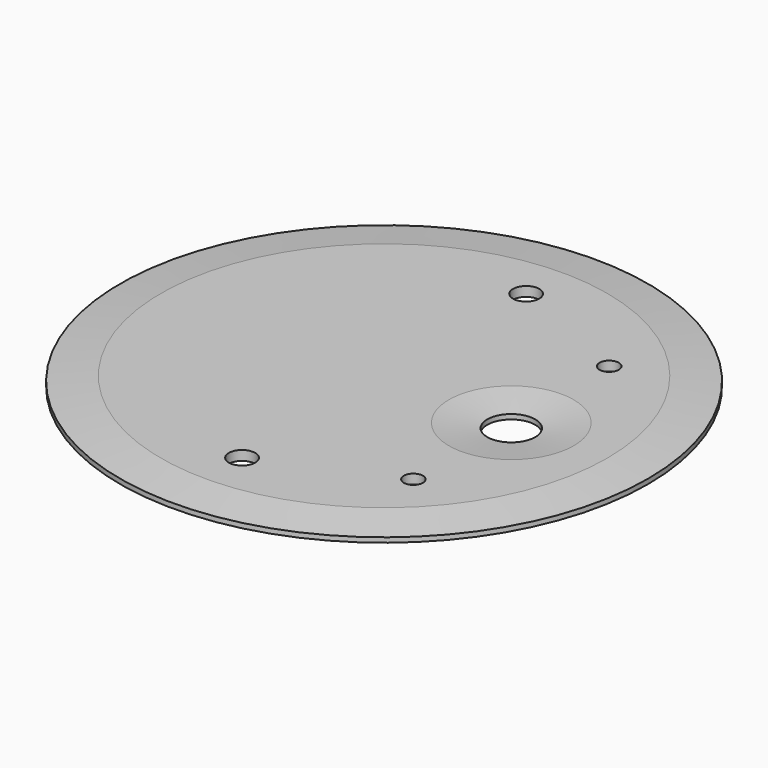
from build123d import *

# Parameters (mm, degrees)
F0_R     = 55
F0_R_2   = 2.75
F0_R_3   = 2
F0_R_4   = 5
F1_DEPTH = 2
F2_SIZE2 = 1
F2_SIZE  = 8.5
F3_SIZE2 = 8
F3_SIZE  = 1


with BuildPart() as f1:
    # F0 (on Top) → F1 (new body)
    with BuildSketch(Plane.XY):
        Circle(F0_R)
        with Locations((0, -37)):
            Circle(F0_R_2, mode=Mode.SUBTRACT)
        with Locations((26.5, -25.5)):
            Circle(F0_R_3, mode=Mode.SUBTRACT)
        with Locations((26.5, 0)):
            Circle(F0_R_4, mode=Mode.SUBTRACT)
        with Locations((26.5, 25.5)):
            Circle(F0_R_3, mode=Mode.SUBTRACT)
        with Locations((0, 37)):
            Circle(F0_R_2, mode=Mode.SUBTRACT)
    extrude(amount=F1_DEPTH)

    # F2
    f2_edges = [f1.edges().sort_by_distance(p)[0] for p in [
        (-55, 0, 2),
    ]]
    f2_side = f1.faces().sort_by_distance((-0.293764, 0, 2))[0]
    chamfer(f2_edges, length=F2_SIZE, length2=F2_SIZE2, reference=f2_side)

    # F3
    f3_edges = [f1.edges().sort_by_distance(p)[0] for p in [
        (21.5, 0, 2),
    ]]
    f3_side = f1.faces().sort_by_distance((21.5, 0, 1))[0]
    chamfer(f3_edges, length=F3_SIZE, length2=F3_SIZE2, reference=f3_side)


solid = f1.part
